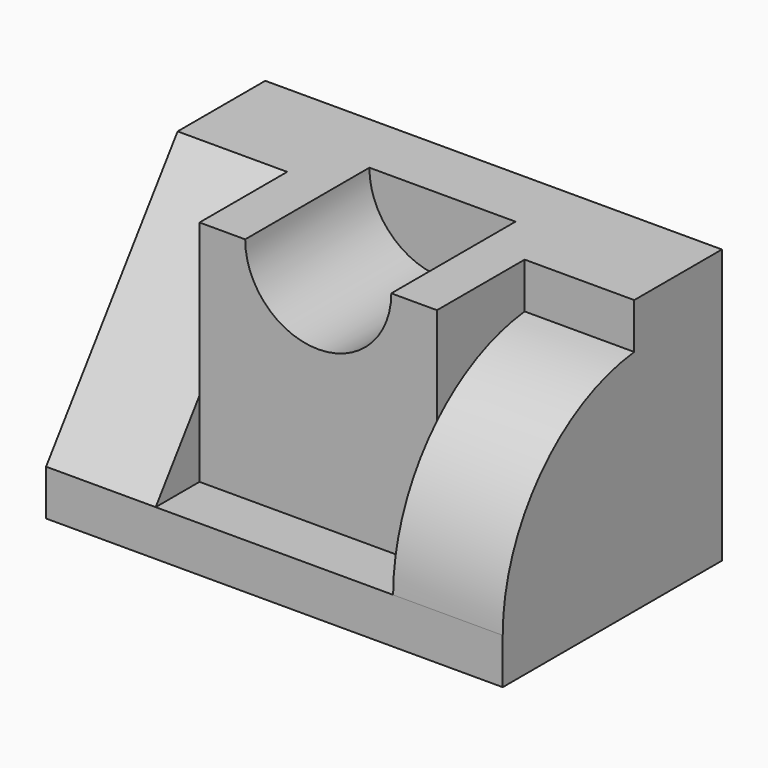
from build123d import *

# Parameters (mm, degrees)
F0_W     = 30
F0_H     = 30
F1_DEPTH = 50
F3_DEPTH = 12
F5_DEPTH = 12
F7_DEPTH = 6
F8_DEPTH = 23


with BuildPart() as f1:
    # F0 (on Right) → F1 (new body)
    with BuildSketch(Plane.YZ):
        with Locations((15, 15)):
            Rectangle(F0_W, F0_H)
    extrude(amount=F1_DEPTH)

    # F2 (on face) → F3 (cut)
    with BuildSketch(Plane.YZ.offset(50)):
        with BuildLine():
            Line((18, 25), (18, 30))
            Line((18, 30), (0, 30))
            Line((0, 30), (0, 5))
            ThreePointArc((0, 5), (5.16264, 18.453624), (18, 25))
        make_face()
    extrude(amount=-F3_DEPTH, mode=Mode.SUBTRACT)

    # F4 (on face) → F5 (cut)
    with BuildSketch(Plane(origin=(0, 0, 0), x_dir=(0, -1, 0), z_dir=(-1, 0, 0))):
        Polygon((0, 30), (-18, 30), (0, 5), align=None)
    extrude(amount=-F5_DEPTH, mode=Mode.SUBTRACT)

    # F6 (on face) → F7 (cut)
    with BuildSketch(Plane.XZ):
        with BuildLine():
            Line((12, 30), (12, 5))
            Line((12, 5), (38, 5))
            Line((38, 5), (38, 30))
            Line((38, 30), (33, 30))
            ThreePointArc((33, 30), (25, 22), (17, 30))
            Line((17, 30), (12, 30))
        make_face()
        with BuildLine():
            Line((33, 30), (17, 30))
            ThreePointArc((17, 30), (25, 22), (33, 30))
        make_face()
    extrude(amount=-F7_DEPTH, mode=Mode.SUBTRACT)

    # F6 (on face) → F8 (cut)
    with BuildSketch(Plane.XZ):
        with BuildLine():
            Line((33, 30), (17, 30))
            ThreePointArc((17, 30), (25, 22), (33, 30))
        make_face()
    extrude(amount=-F8_DEPTH, mode=Mode.SUBTRACT)


solid = f1.part
